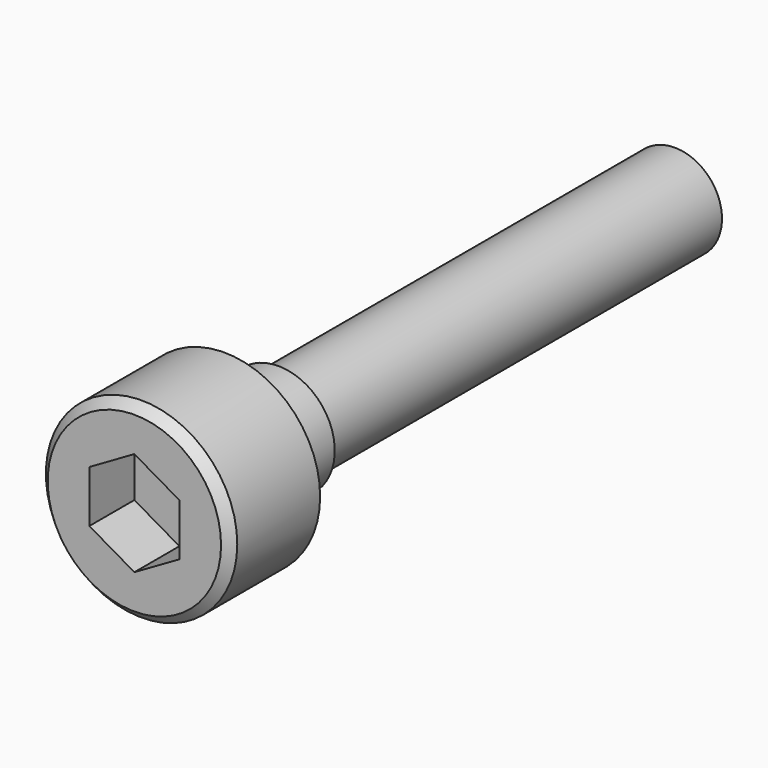
from build123d import *

# Parameters (mm, degrees)
F0_R     = 4.25
F1_DEPTH = 5
F2_R     = 2.5
F3_DEPTH = 25
F4_R     = 2.5
F4_R_2   = 2.1
F5_DEPTH = 22
F7_DEPTH = 2.5
F8_SIZE  = 0.4


with BuildPart() as f1:
    # F0 (on Front) → F1 (new body)
    with BuildSketch(Plane.XZ):
        Circle(F0_R)
    extrude(amount=F1_DEPTH)

    # F2 (on face) → F3 (join)
    with BuildSketch(Plane(origin=(0, 0, 0), x_dir=(-1, 0, 0), z_dir=(0, 1, 0))):
        Circle(F2_R)
    extrude(amount=F3_DEPTH)

    # F4 (on face) → F5 (cut)
    with BuildSketch(Plane(origin=(0, 25, 0), x_dir=(-1, 0, 0), z_dir=(0, 1, 0))):
        Circle(F4_R)
        Circle(F4_R_2, mode=Mode.SUBTRACT)
    extrude(amount=-F5_DEPTH, mode=Mode.SUBTRACT)

    # F6 (on face) → F7 (cut)
    with BuildSketch(Plane.XZ.offset(5)):
        Polygon((0, -2.309401), (2, -1.154701), (2, 1.154701), (0, 2.309401), (-2, 1.154701), (-2, -1.154701), align=None)
    extrude(amount=-F7_DEPTH, mode=Mode.SUBTRACT)

    # F8
    f8_edges = [f1.edges().sort_by_distance(p)[0] for p in [
        (-4.25, -5, 0),
    ]]
    chamfer(f8_edges, length=F8_SIZE)


solid = f1.part
